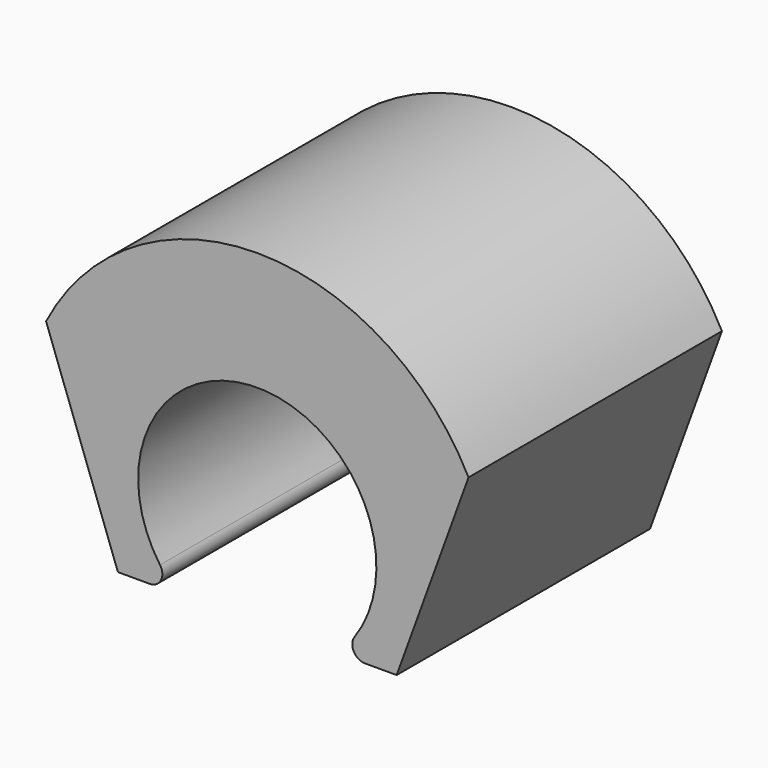
from build123d import *

# Parameters (mm, degrees)
F0_R     = 4.7625
F0_R_2   = 2.3876
F1_DEPTH = 6.35
F3_DEPTH = 6.351
F4_R     = 0.254


with BuildPart() as f1:
    # F0 (on Front) → F1 (new body)
    with BuildSketch(Plane.XZ):
        Circle(F0_R)
        Circle(F0_R_2, mode=Mode.SUBTRACT)
    extrude(amount=F1_DEPTH)

    # F2 (on face) → F3 (cut, through all)
    with BuildSketch(Plane.XZ.offset(6.35)):
        Polygon((-2.794, -1.778), (-4.8590770571, 3.8957525837), (-7.3392285321, 3.8957525837), (-7.3392285321, -6.9893564564), (6.3704967257, -6.9893564564), (6.3704967257, 4.2867070974), (5.001372863, 4.2867070974), (2.794, -1.778), align=None)
    extrude(amount=-F3_DEPTH, mode=Mode.SUBTRACT)

    # F4
    f4_edges = [f1.edges().sort_by_distance(p)[0] for p in [
        (-1.593534, -3.175, -1.778),
        (1.593534, -3.175, -1.778),
    ]]
    fillet(f4_edges, radius=F4_R)


solid = f1.part
